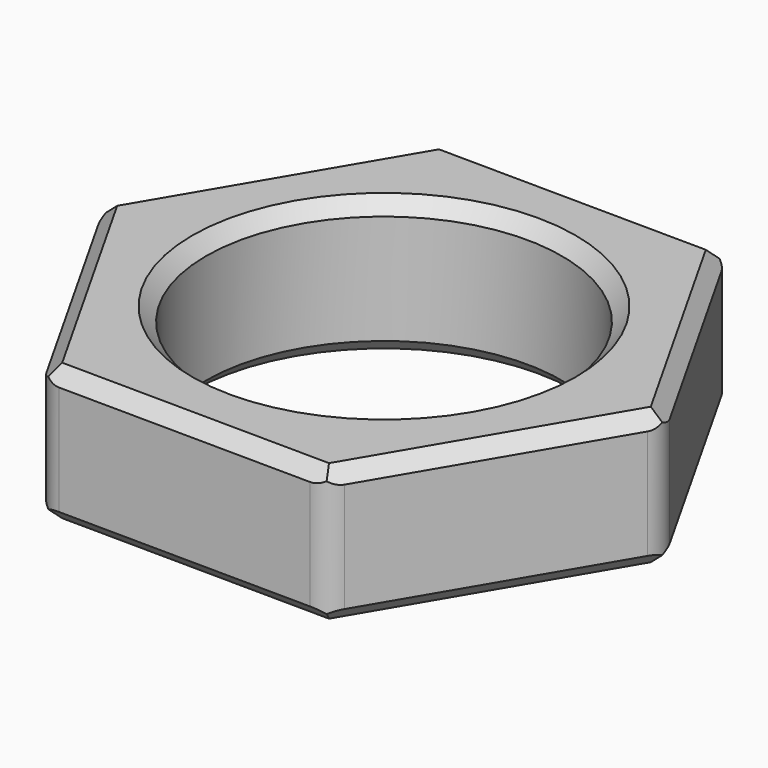
from build123d import *

# Parameters (mm, degrees)
F0_R     = 13
F1_DEPTH = 5
F2_SIZE  = 1
F3_R     = 2


with BuildPart() as f1:
    # F0 (on Top) → F1 (new body, symmetric)
    with BuildSketch(Plane.XY):
        Polygon((-10.5591686686, -17.9026243056), (10.2245431088, -18.0958204627), (20.7837117774, -0.193196157), (10.5591686686, 17.9026243056), (-10.2245431088, 18.0958204627), (-20.7837117774, 0.193196157), align=None)
        Circle(F0_R, mode=Mode.SUBTRACT)
    extrude(amount=F1_DEPTH, both=True)

    # F2
    f2_edges = [f1.edges().sort_by_distance(p)[0] for p in [
        (-15.67144, -8.854714, 5),
        (-0.167313, -17.999222, 5),
        (15.504127, -9.144508, 5),
        (15.67144, 8.854714, 5),
        (0.167313, 17.999222, 5),
        (-15.504127, 9.144508, 5),
        (-13, 0, 5),
        (-15.67144, -8.854714, -5),
        (-0.167313, -17.999222, -5),
        (15.504127, -9.144508, -5),
        (15.67144, 8.854714, -5),
        (0.167313, 17.999222, -5),
        (-15.504127, 9.144508, -5),
        (-13, 0, -5),
    ]]
    chamfer(f2_edges, length=F2_SIZE)

    # F3
    f3_edges = [f1.edges().sort_by_distance(p)[0] for p in [
        (10.559169, 17.902624, 0),
        (-10.224543, 18.09582, 0),
        (-20.783712, 0.193196, 0),
        (-10.559169, -17.902624, 0),
        (10.224543, -18.09582, 0),
        (20.783712, -0.193196, 0),
    ]]
    fillet(f3_edges, radius=F3_R)


solid = f1.part
